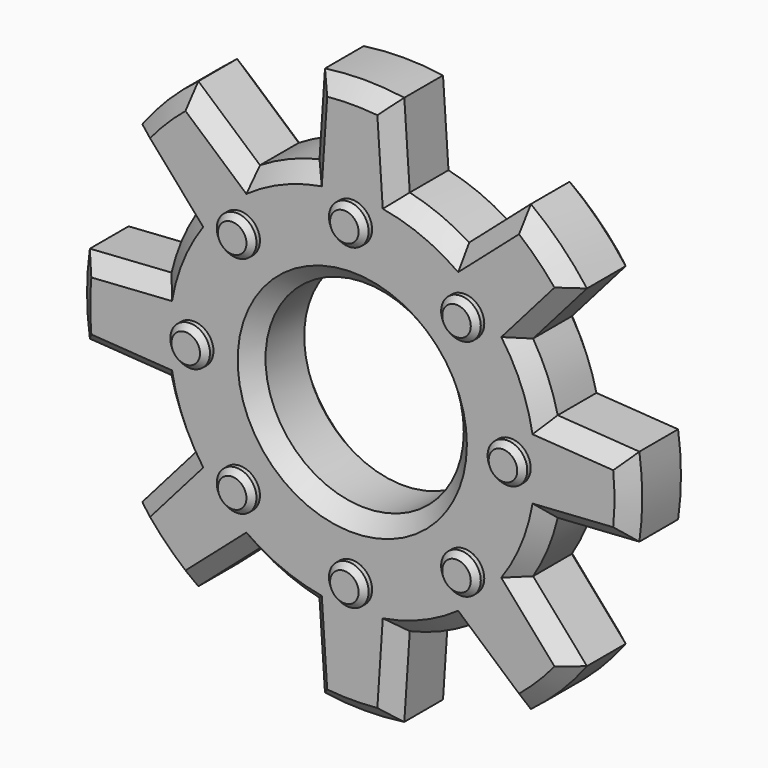
from build123d import *

# Parameters (mm, degrees)
F1_R     = 10
F1_R_2   = 50
F2_DEPTH = 20
F3_DEPTH = 25
F4_SIZE  = 7.8
F5_SIZE  = 2.8


with BuildPart() as f2:
    # F1 (on Front) → F2 (new body, symmetric)
    with BuildSketch(Plane.XZ):
        with BuildLine():
            Line((22.7590984669, 97.375681959), (20, 138.5640646055))
            ThreePointArc((20, 138.5640646055), (0, 140), (-20, 138.5640646055))
            Line((-20, 138.5640646055), (-22.7590984669, 97.375681959))
            ThreePointArc((-22.7590984669, 97.375681959), (-38.2683432365, 92.3879532511), (-52.7618921762, 84.9481178955))
            Line((-52.7618921762, 84.9481178955), (-83.8374540876, 112.1217253351))
            ThreePointArc((-83.8374540876, 112.1217253351), (-98.9949493661, 98.9949493661), (-112.1217253351, 83.8374540876))
            Line((-112.1217253351, 83.8374540876), (-84.9481178955, 52.7618921762))
            ThreePointArc((-84.9481178955, 52.7618921762), (-92.3879532511, 38.2683432365), (-97.375681959, 22.7590984669))
            Line((-97.375681959, 22.7590984669), (-138.5640646055, 20))
            ThreePointArc((-138.5640646055, 20), (-140, 0), (-138.5640646055, -20))
            Line((-138.5640646055, -20), (-97.375681959, -22.7590984669))
            ThreePointArc((-97.375681959, -22.7590984669), (-92.3879532511, -38.2683432365), (-84.9481178955, -52.7618921762))
            Line((-84.9481178955, -52.7618921762), (-112.1217253351, -83.8374540876))
            ThreePointArc((-112.1217253351, -83.8374540876), (-98.9949493661, -98.9949493661), (-83.8374540876, -112.1217253351))
            Line((-83.8374540876, -112.1217253351), (-52.7618921762, -84.9481178955))
            ThreePointArc((-52.7618921762, -84.9481178955), (-38.2683432365, -92.3879532511), (-22.7590984669, -97.375681959))
            Line((-22.7590984669, -97.375681959), (-20, -138.5640646055))
            ThreePointArc((-20, -138.5640646055), (0, -140), (20, -138.5640646055))
            Line((20, -138.5640646055), (22.7590984669, -97.375681959))
            ThreePointArc((22.7590984669, -97.375681959), (38.2683432365, -92.3879532511), (52.7618921762, -84.9481178955))
            Line((52.7618921762, -84.9481178955), (83.8374540876, -112.1217253351))
            ThreePointArc((83.8374540876, -112.1217253351), (98.9949493661, -98.9949493661), (112.1217253351, -83.8374540876))
            Line((112.1217253351, -83.8374540876), (84.9481178955, -52.7618921762))
            ThreePointArc((84.9481178955, -52.7618921762), (92.3879532511, -38.2683432365), (97.375681959, -22.7590984669))
            Line((97.375681959, -22.7590984669), (138.5640646055, -20))
            ThreePointArc((138.5640646055, -20), (140, 0), (138.5640646055, 20))
            Line((138.5640646055, 20), (97.375681959, 22.7590984669))
            ThreePointArc((97.375681959, 22.7590984669), (92.3879532511, 38.2683432365), (84.9481178955, 52.7618921762))
            Line((84.9481178955, 52.7618921762), (112.1217253351, 83.8374540876))
            ThreePointArc((112.1217253351, 83.8374540876), (98.9949493661, 98.9949493661), (83.8374540876, 112.1217253351))
            Line((83.8374540876, 112.1217253351), (52.7618921762, 84.9481178955))
            ThreePointArc((52.7618921762, 84.9481178955), (38.2683432365, 92.3879532511), (22.7590984669, 97.375681959))
        make_face()
        with Locations((-56.5685424949, -56.5685424949)):
            Circle(F1_R, mode=Mode.SUBTRACT)
        with Locations((0, -80)):
            Circle(F1_R, mode=Mode.SUBTRACT)
        with Locations((56.5685424949, -56.5685424949)):
            Circle(F1_R, mode=Mode.SUBTRACT)
        with Locations((-80, 0)):
            Circle(F1_R, mode=Mode.SUBTRACT)
        with Locations((-56.5685424949, 56.5685424949)):
            Circle(F1_R, mode=Mode.SUBTRACT)
        Circle(F1_R_2, mode=Mode.SUBTRACT)
        with Locations((56.5685424949, 56.5685424949)):
            Circle(F1_R, mode=Mode.SUBTRACT)
        with Locations((80, 0)):
            Circle(F1_R, mode=Mode.SUBTRACT)
        with Locations((0, 80)):
            Circle(F1_R, mode=Mode.SUBTRACT)
    extrude(amount=F2_DEPTH, both=True)

    # F1 (on Front) → F3 (join, symmetric)
    with BuildSketch(Plane.XZ):
        with Locations((-56.5685424949, 56.5685424949)):
            Circle(F1_R)
        with Locations((-80, 0)):
            Circle(F1_R)
        with Locations((-56.5685424949, -56.5685424949)):
            Circle(F1_R)
        with Locations((0, -80)):
            Circle(F1_R)
        with Locations((56.5685424949, -56.5685424949)):
            Circle(F1_R)
        with Locations((80, 0)):
            Circle(F1_R)
        with Locations((56.5685424949, 56.5685424949)):
            Circle(F1_R)
        with Locations((0, 80)):
            Circle(F1_R)
    extrude(amount=F3_DEPTH, both=True)

    # F4
    f4_edges = [f2.edges().sort_by_distance(p)[0] for p in [
        (0, -20, 140),
        (-21.379549, -20, 117.969873),
        (21.379549, -20, 117.969873),
        (38.268343, -20, 92.387953),
        (68.299673, -20, 98.534922),
        (98.534922, -20, 68.299673),
        (92.387953, -20, 38.268343),
        (117.969873, -20, 21.379549),
        (140, -20, 0),
        (98.994949, -20, 98.994949),
        (117.969873, -20, -21.379549),
        (92.387953, -20, -38.268343),
        (98.994949, -20, -98.994949),
        (68.299673, -20, -98.534922),
        (38.268343, -20, -92.387953),
        (21.379549, -20, -117.969873),
        (0, -20, -140),
        (-38.268343, -20, -92.387953),
        (-68.299673, -20, -98.534922),
        (98.534922, -20, -68.299673),
        (-38.268343, -20, 92.387953),
        (-68.299673, -20, 98.534922),
        (-98.994949, -20, 98.994949),
        (-98.534922, -20, 68.299673),
        (-92.387953, -20, 38.268343),
        (-117.969873, -20, 21.379549),
        (-140, -20, 0),
        (-117.969873, -20, -21.379549),
        (-92.387953, -20, -38.268343),
        (-98.534922, -20, -68.299673),
        (-98.994949, -20, -98.994949),
        (-98.994949, 20, 98.994949),
        (-98.534922, 20, 68.299673),
        (-92.387953, 20, 38.268343),
        (-117.969873, 20, 21.379549),
        (-140, 20, 0),
        (-117.969873, 20, -21.379549),
        (-92.387953, 20, -38.268343),
        (-98.534922, 20, -68.299673),
        (-98.994949, 20, -98.994949),
        (-68.299673, 20, -98.534922),
        (-38.268343, 20, -92.387953),
        (-21.379549, 20, -117.969873),
        (0, 20, -140),
        (21.379549, 20, -117.969873),
        (38.268343, 20, -92.387953),
        (68.299673, 20, -98.534922),
        (98.994949, 20, -98.994949),
        (98.534922, 20, -68.299673),
        (92.387953, 20, -38.268343),
        (117.969873, 20, -21.379549),
        (140, 20, 0),
        (117.969873, 20, 21.379549),
        (92.387953, 20, 38.268343),
        (98.534922, 20, 68.299673),
        (98.994949, 20, 98.994949),
        (68.299673, 20, 98.534922),
        (38.268343, 20, 92.387953),
        (21.379549, 20, 117.969873),
        (0, 20, 140),
        (-21.379549, 20, 117.969873),
        (-38.268343, 20, 92.387953),
        (-68.299673, 20, 98.534922),
        (-50, 20, 0),
        (-50, -20, 0),
        (-21.379549, -20, -117.969873),
    ]]
    chamfer(f4_edges, length=F4_SIZE)

    # F5
    f5_edges = [f2.edges().sort_by_distance(p)[0] for p in [
        (-66.568542, -25, 56.568542),
        (-10, -25, 80),
        (46.568542, -25, 56.568542),
        (70, -25, 0),
        (-90, -25, 0),
        (-66.568542, -25, -56.568542),
        (-10, -25, -80),
        (46.568542, -25, -56.568542),
        (-66.568542, 25, 56.568542),
        (-10, 25, 80),
        (-90, 25, 0),
        (46.568542, 25, 56.568542),
        (-66.568542, 25, -56.568542),
        (-10, 25, -80),
        (46.568542, 25, -56.568542),
        (70, 25, 0),
    ]]
    chamfer(f5_edges, length=F5_SIZE)


solid = f2.part
